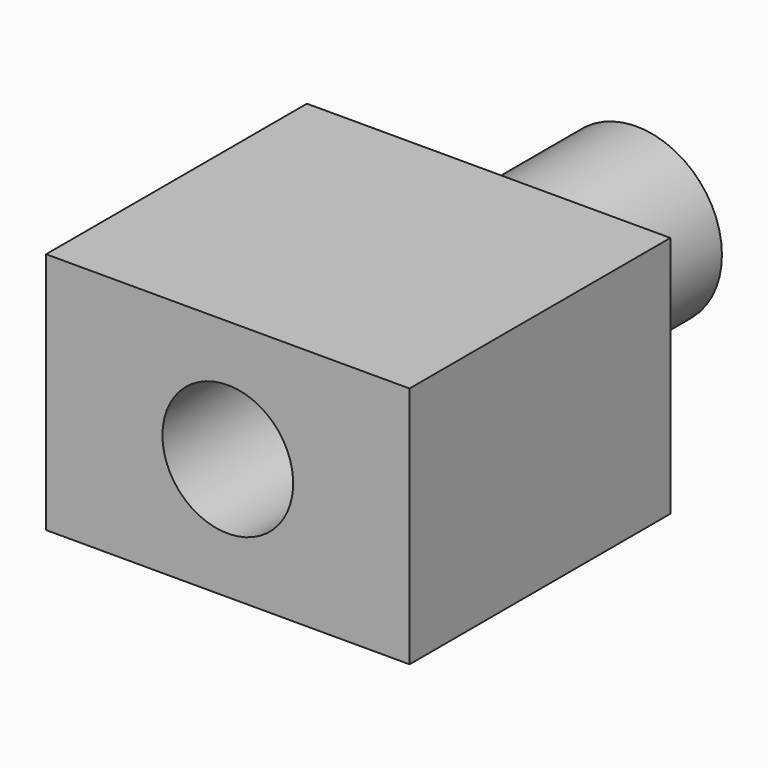
from build123d import *

# Parameters (mm, degrees)
F0_W     = 54.92849
F0_H     = 36.702846
F1_DEPTH = 49.276
F2_R     = 12.902287
F3_DEPTH = 27.94
F4_R     = 9.88166
F5_DEPTH = 92.202


with BuildPart() as f1:
    # F0 (on Front) → F1 (new body)
    with BuildSketch(Plane.XZ):
        Rectangle(F0_W, F0_H)
    extrude(amount=F1_DEPTH)

    # F2 (on Front) → F3 (join)
    with BuildSketch(Plane.XZ):
        Circle(F2_R)
    extrude(amount=-F3_DEPTH)

    # F4 (on face) → F5 (cut)
    with BuildSketch(Plane(origin=(0, 27.94, 0), x_dir=(-1, 0, 0), z_dir=(0, 1, 0))):
        Circle(F4_R)
    extrude(amount=-F5_DEPTH, mode=Mode.SUBTRACT)


solid = f1.part
